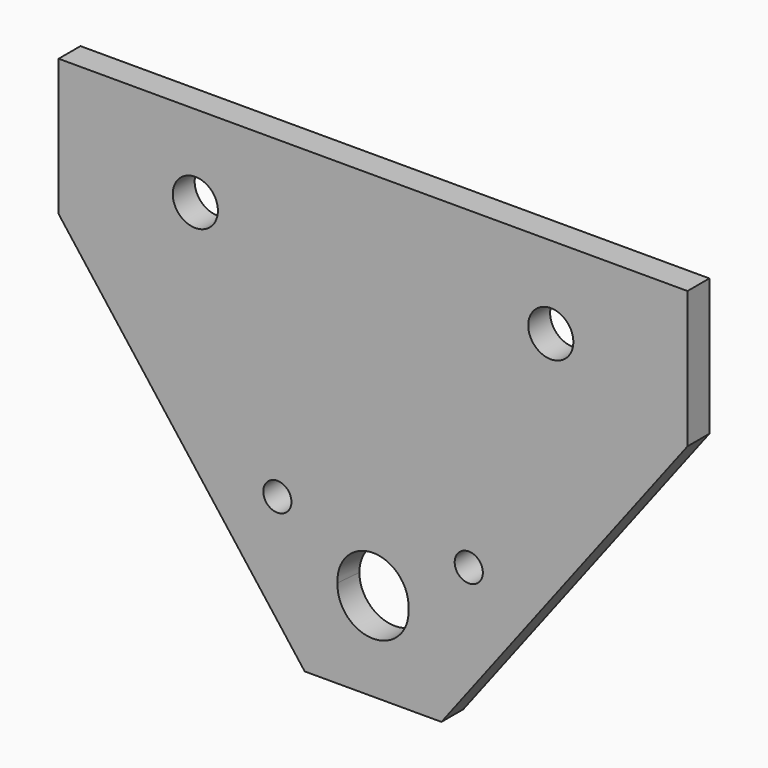
from build123d import *

# Parameters (mm, degrees)
F0_R     = 5.15
F0_R_2   = 13
F0_R_3   = 8.25
F1_DEPTH = 10
F3_R     = 13
F4_DEPTH = 30.041475


with BuildPart() as f1:
    # F0 (on Front) → F1 (new body)
    with BuildSketch(Plane.XZ):
        Polygon((115.000841, -20), (114.998738, 30), (-115.001262, 30), (-114.999159, -20), (-24.999159, -138), (25.000841, -138), align=None)
        with Locations((-35, -85)):
            Circle(F0_R, mode=Mode.SUBTRACT)
        with Locations((0, -106.326342)):
            Circle(F0_R_2, mode=Mode.SUBTRACT)
        with Locations((35, -85)):
            Circle(F0_R, mode=Mode.SUBTRACT)
        with Locations((-64.998738, 0)):
            Circle(F0_R_3, mode=Mode.SUBTRACT)
        with Locations((64.998738, 0)):
            Circle(F0_R_3, mode=Mode.SUBTRACT)
    extrude(amount=F1_DEPTH)

    # F3 (on face) → F4 (cut, through all)
    with BuildSketch(Plane(origin=(0, 15.543407, -2.322978), x_dir=(-1, 0, 0), z_dir=(0, 0.989016, -0.147809))):
        with Locations((0, -105.158439)):
            Circle(F3_R)
    extrude(amount=-F4_DEPTH, mode=Mode.SUBTRACT)


solid = f1.part
